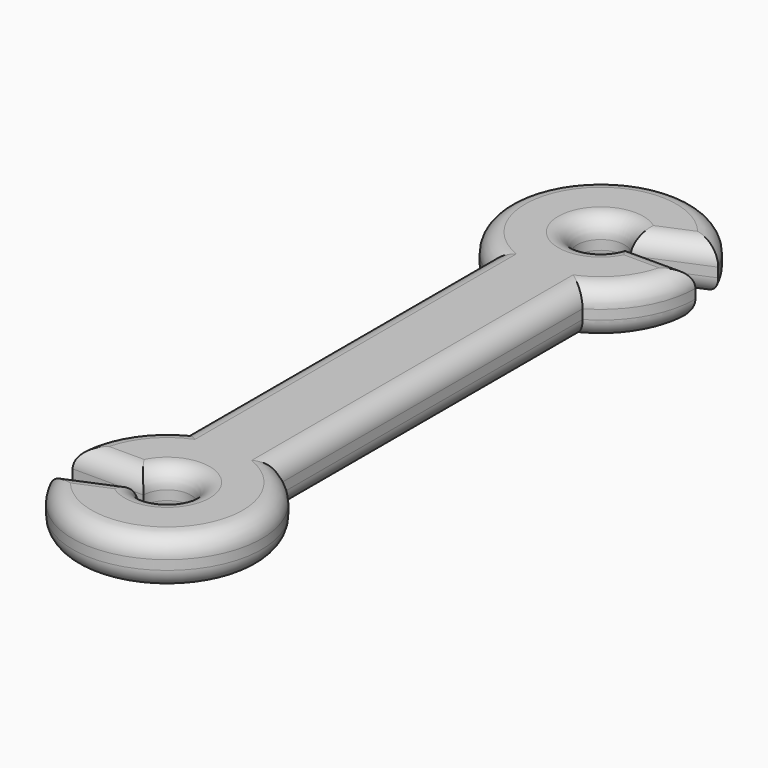
from build123d import *

# Parameters (mm, degrees)
F1_DEPTH = 0.5
F2_R     = 0.2
F3_R     = 0.2


with BuildPart() as f1:
    # F0 (on Top) → F1 (new body)
    with BuildSketch(Plane.XY):
        with BuildLine():
            Line((0.217083, 2.990021), (0.909927, 3.280794))
            ThreePointArc((0.909927, 3.280794), (-0.672397, 3.606216), (-0.5, 2))
            Line((-0.5, 2), (-0.5, -2))
            ThreePointArc((-0.5, -2), (-0.866025, -2.366025), (-1, -2.866025))
            Line((-1, -2.866025), (-0.25, -2.866025))
            ThreePointArc((-0.25, -2.866025), (0.241631, -2.80188), (-0.217083, -2.990021))
            Line((-0.217083, -2.990021), (-0.909927, -3.280794))
            ThreePointArc((-0.909927, -3.280794), (0.672397, -3.606216), (0.5, -2))
            Line((0.5, -2), (0.5, 2))
            ThreePointArc((0.5, 2), (0.866025, 2.366025), (1, 2.866025))
            Line((1, 2.866025), (0.25, 2.866025))
            ThreePointArc((0.25, 2.866025), (-0.241631, 2.80188), (0.217083, 2.990021))
        make_face()
    extrude(amount=F1_DEPTH)

    # F2
    f2_edges = [f1.edges().sort_by_distance(p)[0] for p in [
        (0.625, 2.866025, 0),
        (-0.241631, 2.80188, 0),
        (0.563505, 3.135407, 0),
        (-0.672397, 3.606216, 0),
        (-0.5, 0, 0),
        (-0.866025, -2.366025, 0),
        (-0.625, -2.866025, 0),
        (0.241631, -2.80188, 0),
        (-0.563505, -3.135407, 0),
        (0.672397, -3.606216, 0),
        (0.5, 0, 0),
        (0.866025, 2.366025, 0),
    ]]
    fillet(f2_edges, radius=F2_R)

    # F3
    f3_edges = [f1.edges().sort_by_distance(p)[0] for p in [
        (0.625, 2.866025, 0.5),
        (-0.241631, 2.80188, 0.5),
        (0.563505, 3.135407, 0.5),
        (-0.672397, 3.606216, 0.5),
        (-0.5, 0, 0.5),
        (-0.866025, -2.366025, 0.5),
        (-0.625, -2.866025, 0.5),
        (0.241631, -2.80188, 0.5),
        (-0.563505, -3.135407, 0.5),
        (0.672397, -3.606216, 0.5),
        (0.5, 0, 0.5),
        (0.866025, 2.366025, 0.5),
    ]]
    fillet(f3_edges, radius=F3_R)


solid = f1.part
